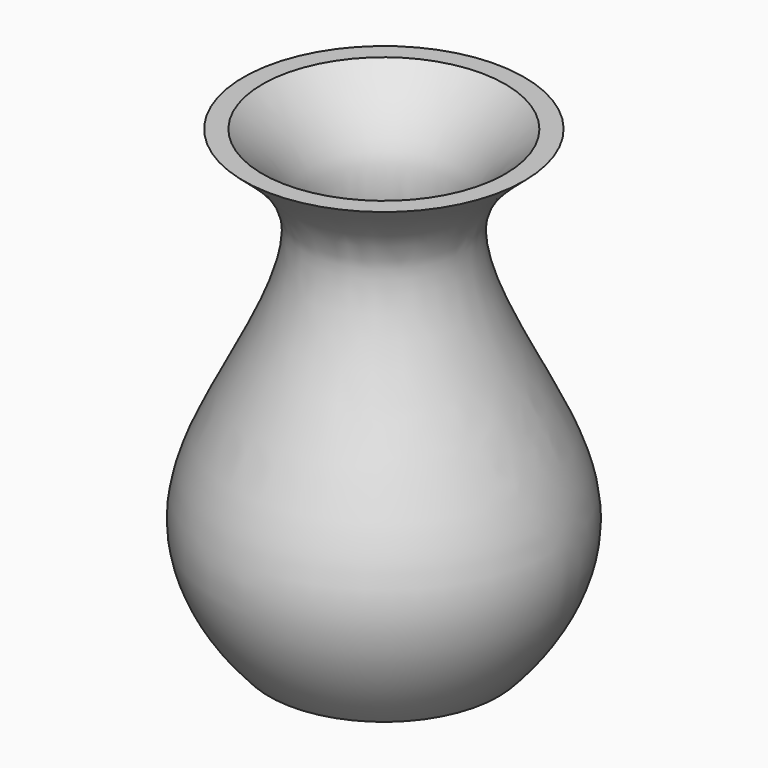
from build123d import *

# Parameters (mm, degrees)
F2_T = -0.8


with BuildPart() as f1:
    # F0 (on Front) → F1 (revolve)
    with BuildSketch(Plane.XZ):
        with BuildLine():
            Line((0, 0), (7.4556208707, 0))
            add(Edge.make_bspline(
                [(7.4556208707, 0), (9.6486358854, 2.3329290552), (12.2934157001, 7.7380272525), (8.4419137037, 15.3861579955), (3.4142645011, 25.1510998844), (7.1147155739, 28.2964118126), (9.1124263957, 30)],
                knots=[0, 0, 0, 0, 0.2530132239, 0.5057701652, 0.7775248269, 1, 1, 1, 1], degree=3))
            Line((9.1124263957, 30), (0, 30))
            Line((0, 30), (0, 0))
        make_face()
    revolve(axis=Axis((0, 0, 13.7278104354), (0, 0, -1)))

    # F2
    f2_openings = [f1.faces().sort_by_distance(p)[0] for p in [
        (0, 0, 30),
    ]]
    offset(amount=F2_T, openings=f2_openings)


solid = f1.part
